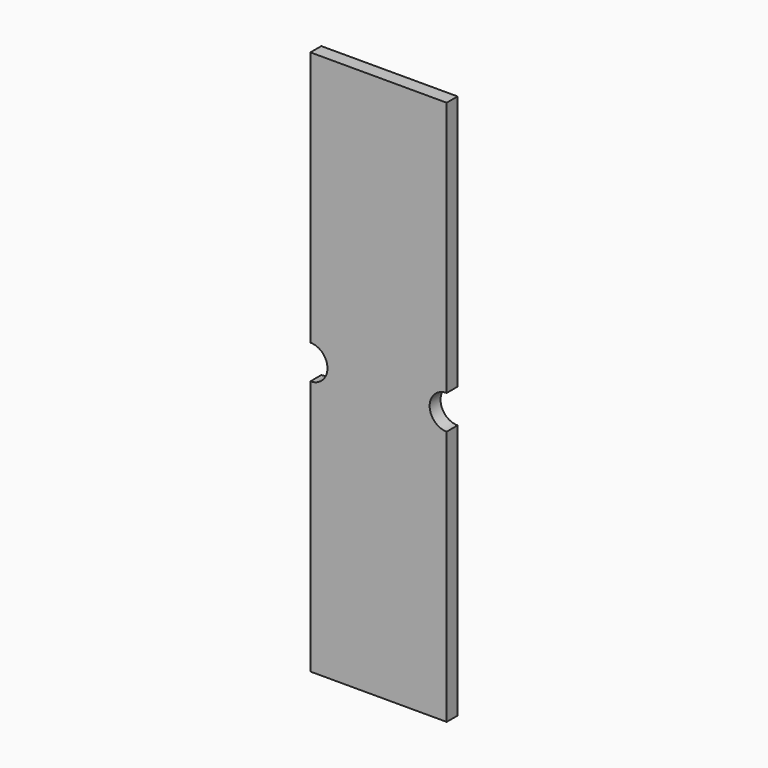
from build123d import *

# Parameters (mm, degrees)
F1_DEPTH = 50.8


with BuildPart() as f1:
    # F0 (on Front) → F1 (new body)
    with BuildSketch(Plane.XZ):
        with BuildLine():
            Line((254, 1016), (-254, 1016))
            Line((-254, 1016), (-254, 63.5))
            ThreePointArc((-254, 63.5), (-190.5, 0), (-254, -63.5))
            Line((-254, -63.5), (-254, -1016))
            Line((-254, -1016), (254, -1016))
            Line((254, -1016), (254, -63.5))
            ThreePointArc((254, -63.5), (190.5, 0), (254, 63.5))
            Line((254, 63.5), (254, 1016))
        make_face()
    extrude(amount=F1_DEPTH)


solid = f1.part
